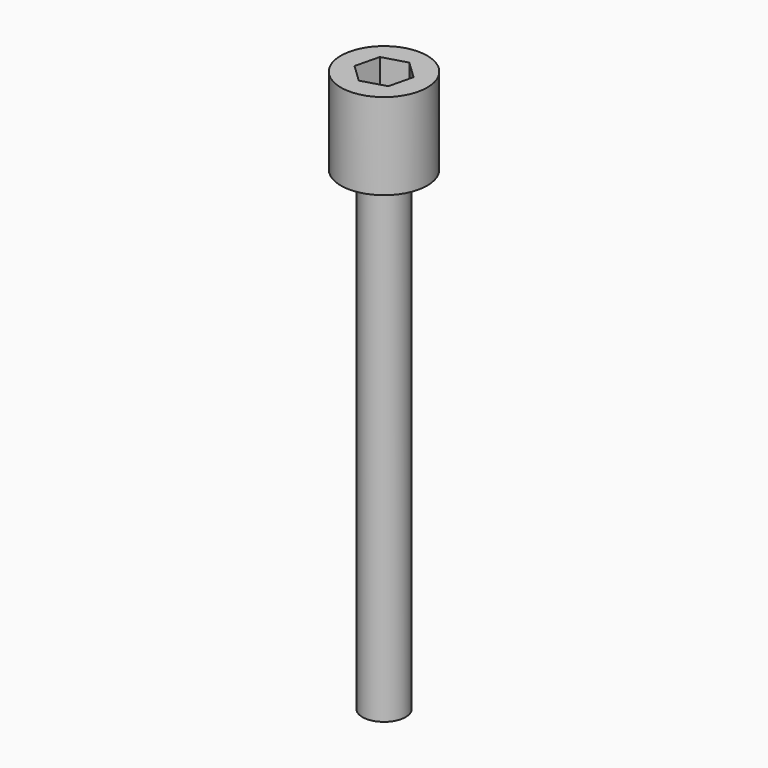
from build123d import *

# Parameters (mm, degrees)
F0_R     = 3.175
F1_DEPTH = 6.35
F2_R     = 1.5875
F3_DEPTH = 34.925


with BuildPart() as f1:
    # F0 (on Top) → F1 (new body)
    with BuildSketch(Plane.XY):
        with Locations((-31.434811, 22.613416)):
            Circle(F0_R)
        Polygon((-33.193928, 22.097939), (-32.760786, 23.879117), (-31.001669, 24.394595), (-29.675695, 23.128894), (-30.108836, 21.347715), (-31.867953, 20.832238), align=None, mode=Mode.SUBTRACT)
    extrude(amount=F1_DEPTH)


with BuildPart() as f3:
    # F2 (on face) → F3 (new body)
    with BuildSketch(Plane(origin=(0, 0, 0), x_dir=(1, 0, 0), z_dir=(0, 0, -1))):
        with Locations((-31.434811, -22.613416)):
            Circle(F2_R)
    extrude(amount=F3_DEPTH)


solid = Compound([f1.part, f3.part])
